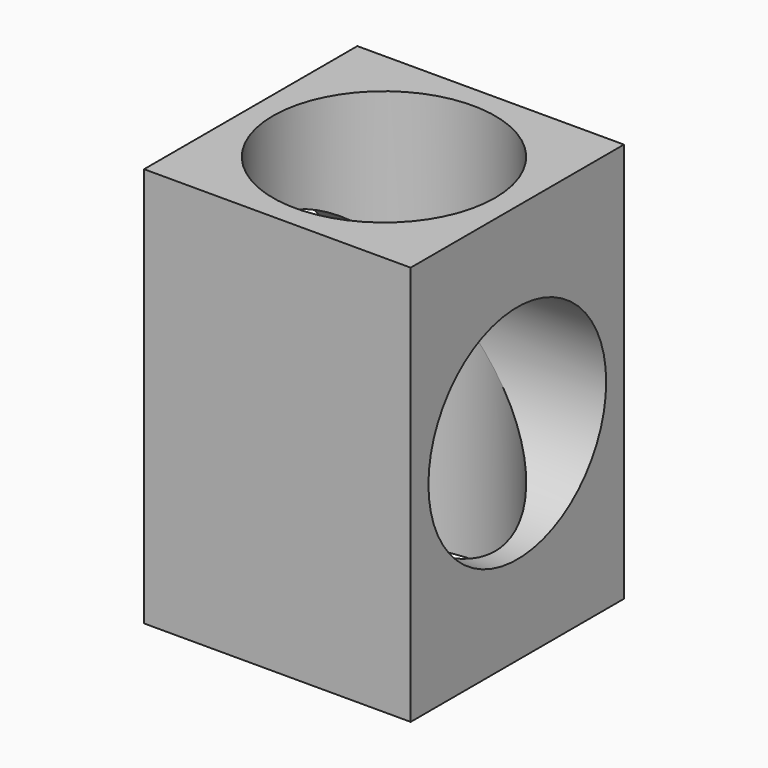
from build123d import *

# Parameters (mm, degrees)
F0_W     = 60
F0_H     = 60
F0_R     = 25
F1_DEPTH = 45
F2_R     = 25
F3_DEPTH = 60.001


with BuildPart() as f1:
    # F0 (on Top) → F1 (new body, symmetric)
    with BuildSketch(Plane.XY):
        Rectangle(F0_W, F0_H)
        Circle(F0_R, mode=Mode.SUBTRACT)
    extrude(amount=F1_DEPTH, both=True)

    # F2 (on face) → F3 (cut, through all)
    with BuildSketch(Plane.YZ.offset(30)):
        Circle(F2_R)
    extrude(amount=-F3_DEPTH, mode=Mode.SUBTRACT)


solid = f1.part
